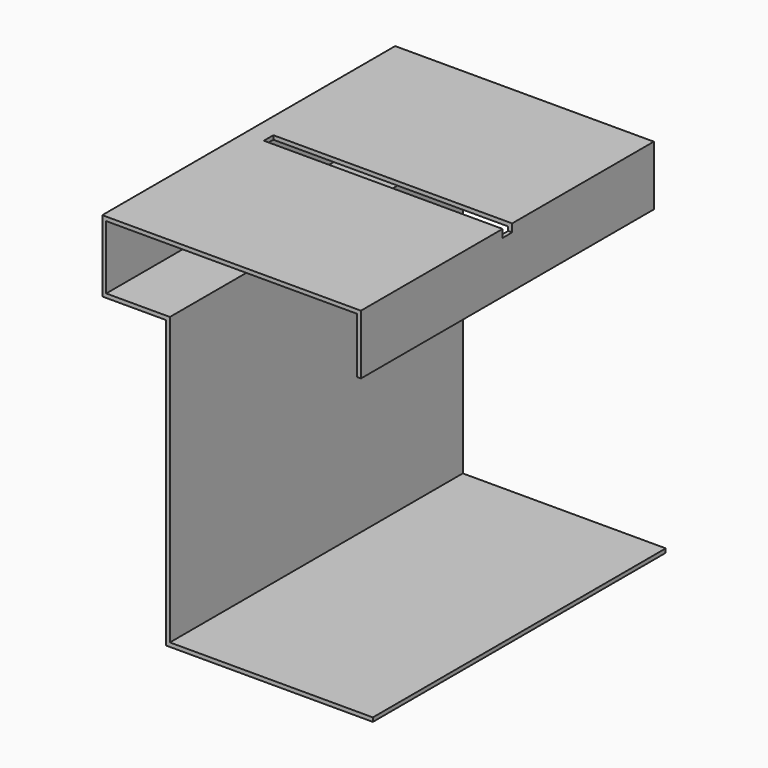
from build123d import *

# Parameters (mm, degrees)
F1_DEPTH = 92
F3_DEPTH = 2


with BuildPart() as f1:
    # F0 (on Front) → F1 (new body)
    with BuildSketch(Plane.XZ):
        Polygon((28.290438, 37.953579), (-36.709562, 37.953579), (-36.709562, 19.953579), (-20.709562, 19.953579), (-20.709562, -52.046421), (31.290438, -52.046421), (31.290438, -51.046421), (-19.709562, -51.046421), (-19.709562, 20.953579), (-35.709562, 20.953579), (-35.709562, 36.953579), (27.290438, 36.953579), (27.290438, 22.953579), (28.290438, 22.953579), align=None)
    extrude(amount=F1_DEPTH)

    # F2 (on face) → F3 (cut)
    with BuildSketch(Plane.XY.offset(37.953579)):
        Polygon((-31.709562, -47.5), (28.290438, -47.5), (28.290438, -46), (28.290438, -44.5), (-31.709562, -44.5), (-31.709562, -46), align=None)
    extrude(amount=-F3_DEPTH, mode=Mode.SUBTRACT)


solid = f1.part
